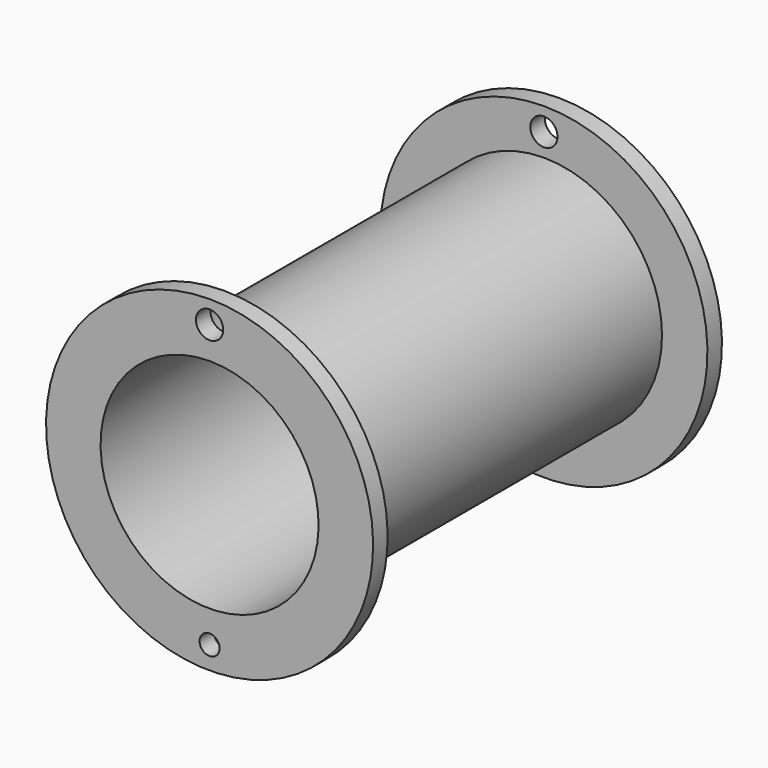
from build123d import *

# Parameters (mm, degrees)
F3_R     = 9.525
F3_R_2   = 6.980415
F4_DEPTH = 304.801


with BuildPart() as f1:
    # F0 (on Right) → F1 (revolve)
    with BuildSketch(Plane.YZ):
        Polygon((0, 76.2), (0, 114.3), (-12.7, 114.3), (-12.7, 82.55), (-292.1, 82.55), (-292.1, 114.3), (-304.8, 114.3), (-304.8, 76.2), align=None)
    revolve(axis=Axis((0, 69.986956, 0), (0, 1, 0)))

    # F3 (on offset) → F4 (cut, through all)
    with BuildSketch(Plane.XZ.offset(304.8)):
        with Locations((0, 98.425)):
            Circle(F3_R)
        with Locations((0, -98.425)):
            Circle(F3_R_2)
    extrude(amount=-F4_DEPTH, mode=Mode.SUBTRACT)


solid = f1.part
